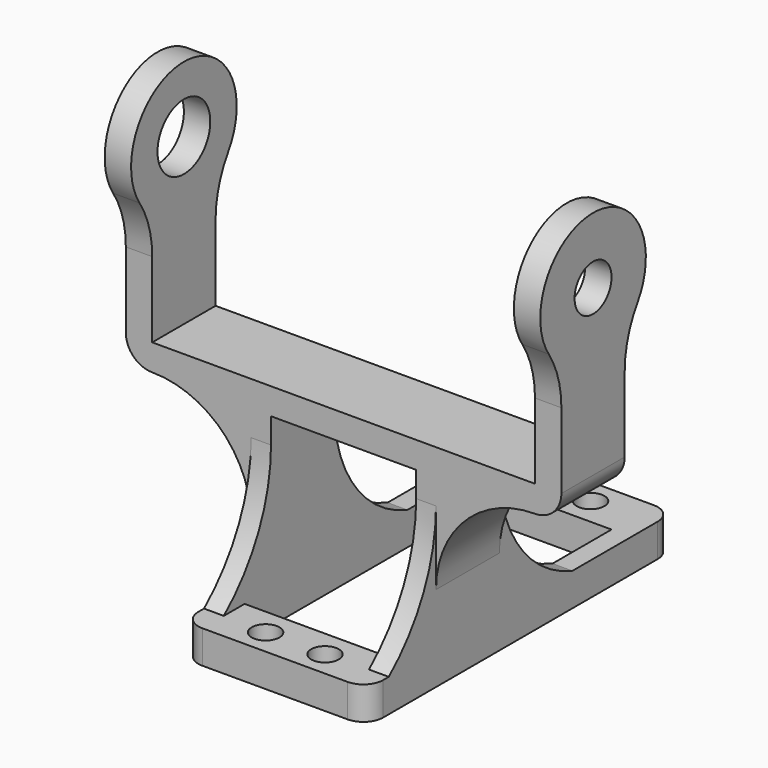
from build123d import *

# Parameters (mm, degrees)
SKETCH022_R             = 2.1
SKETCH022_W             = 22
SKETCH022_H             = 42
PAD010_DEPTH            = 5
PAD013_DEPTH            = 3
PAD011_DEPTH            = 3
PAD012_DEPTH            = 12
SKETCH028_R             = 10
PAD014_DEPTH            = 4
SKETCH029_R             = 3.5
POCKET011_DEPTH         = 4
SKETCH026_R             = 10
PAD015_DEPTH            = 4
SKETCH025_R             = 5
POCKET012_DEPTH         = 4
FILLET002_R             = 15
BODY005_PLACEMENT_ANGLE = 90


with BuildPart() as part:
    # Sketch022 → Pad010 (new body)
    with BuildSketch(Plane.XZ):
        with BuildLine():
            Line((-11, 29), (11, 29))
            ThreePointArc((14, 26), (13.1213203436, 28.1213203436), (11, 29))
            Line((14, 26), (14, -26))
            ThreePointArc((11, -29), (13.1213203436, -28.1213203436), (14, -26))
            Line((11, -29), (-11, -29))
            ThreePointArc((-14, -26), (-13.1213203436, -28.1213203436), (-11, -29))
            Line((-14, -26), (-14, 26))
            ThreePointArc((-11, 29), (-13.1213203436, 28.1213203436), (-14, 26))
        make_face()
        with Locations((-4.5, -25.15)):
            Circle(SKETCH022_R, mode=Mode.SUBTRACT)
        with Locations((4.5, -25.15)):
            Circle(SKETCH022_R, mode=Mode.SUBTRACT)
        with Locations((-4.5, 25.15)):
            Circle(SKETCH022_R, mode=Mode.SUBTRACT)
        with Locations((4.5, 25.15)):
            Circle(SKETCH022_R, mode=Mode.SUBTRACT)
        Rectangle(SKETCH022_W, SKETCH022_H, mode=Mode.SUBTRACT)
    extrude(amount=PAD010_DEPTH)

    # Sketch023 (on Face1 of Pad010) → Pad013 (join)
    with BuildSketch(Plane(origin=(-14, 0, 0), x_dir=(0, 0, -1), z_dir=(-1, 0, 0))):
        with BuildLine():
            Line((4, 29.0287840283), (16, 29.0287840283))
            Line((16, 29.0287840283), (16, 24.1593727123))
            ThreePointArc((16, 24.1593727123), (18.3615371547, 13.5527709945), (25, 4.95))
            Line((-10, 4.95), (25, 4.95))
            ThreePointArc((-10, 4.95), (0.1245154966, 12.1966244621), (4, 24.0287840283))
            Line((4, 24.0287840283), (4, 29.0287840283))
        make_face()
    extrude(amount=-PAD013_DEPTH)

    # Sketch027 (on Face9 of Pad013) → Pad011 (join)
    with BuildSketch(Plane(origin=(14, 0, 0), x_dir=(0, 0, 1), z_dir=(1, 0, 0))):
        with BuildLine():
            Line((10, 4.95), (-25, 4.95))
            ThreePointArc((-25, 4.95), (-18.3615371547, 13.5527709945), (-16, 24.1593727123))
            Line((-16, 24.1593727123), (-16, 29.0287840283))
            Line((-16, 29.0287840283), (-4, 29.0287840283))
            Line((-4, 29.0287840283), (-4, 24.0287840283))
            ThreePointArc((-4, 24.0287840283), (-0.1245154966, 12.1966244621), (10, 4.95))
        make_face()
    extrude(amount=-PAD011_DEPTH)

    # Sketch024 (on Face31 of Pad011) → Pad012 (join)
    with BuildSketch(Plane(origin=(0, 0, -4), x_dir=(-1, 0, 0), z_dir=(0, 0, 1))):
        with BuildLine():
            Line((-29, 32), (29, 32))
            Line((29, 57), (29, 32))
            Line((33, 57), (29, 57))
            Line((33, 32), (33, 57))
            ThreePointArc((29, 28), (31.8284271247, 29.1715728753), (33, 32))
            ThreePointArc((29, 28), (18.3933982822, 23.6066017178), (14, 13))
            Line((14, 28), (14, 13))
            Line((-14, 28), (14, 28))
            Line((-14, 28), (-14, 13))
            ThreePointArc((-14, 13), (-18.3933982822, 23.6066017178), (-29, 28))
            ThreePointArc((-33, 32), (-31.8284271247, 29.1715728753), (-29, 28))
            Line((-33, 32), (-33, 57))
            Line((-33, 57), (-29, 57))
            Line((-29, 57), (-29, 32))
        make_face()
    extrude(amount=-PAD012_DEPTH)

    # Sketch028 (on Face53 of Pad012) → Pad014 (join)
    with BuildSketch(Plane(origin=(33, 0, 0), x_dir=(0, 0, 1), z_dir=(1, 0, 0))):
        with Locations((-10, 57)):
            Circle(SKETCH028_R)
    extrude(amount=-PAD014_DEPTH)

    # Sketch029 (on Face56 of Pad014) → Pocket011 (cut)
    with BuildSketch(Plane(origin=(33, 0, 0), x_dir=(0, 0, 1), z_dir=(1, 0, 0))):
        with Locations((-10, 57)):
            Circle(SKETCH029_R)
    extrude(amount=-POCKET011_DEPTH, mode=Mode.SUBTRACT)

    # Sketch026 (on Face47 of Pocket011) → Pad015 (join)
    with BuildSketch(Plane(origin=(-33, 0, 0), x_dir=(0, 0, -1), z_dir=(-1, 0, 0))):
        with Locations((10, 57)):
            Circle(SKETCH026_R)
    extrude(amount=-PAD015_DEPTH)

    # Sketch025 (on Face58 of Pad015) → Pocket012 (cut)
    with BuildSketch(Plane(origin=(-33, 0, 0), x_dir=(0, 0, -1), z_dir=(-1, 0, 0))):
        with Locations((10, 57)):
            Circle(SKETCH025_R)
    extrude(amount=-POCKET012_DEPTH, mode=Mode.SUBTRACT)

    # Fillet002
    fillet002_edges = [part.edges().sort_by_distance(p)[0] for p in [
        (-31, -49, -4),
        (31, -49, -16),
        (-31, -49, -16),
        (31, -49, -4),
    ]]
    fillet(fillet002_edges, radius=FILLET002_R)


with BuildPart() as part_1:
    # Body005 placement: moved
    add(part.part.moved(Location((0, -65.5, -132))).rotate(Axis((0, -65.5, -132), (-1, 0, 0)), BODY005_PLACEMENT_ANGLE))


solid = part_1.part
